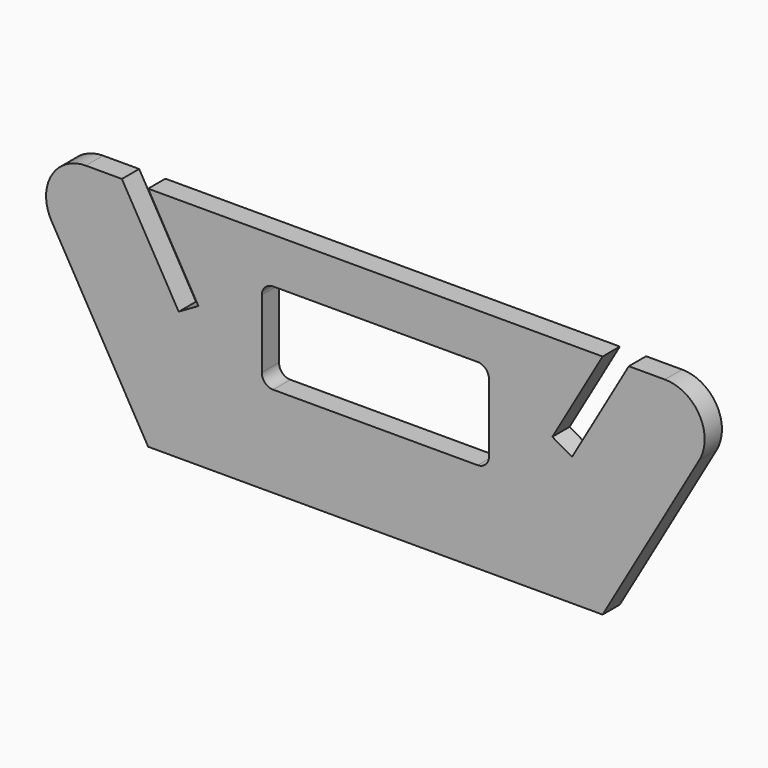
from build123d import *

# Parameters (mm, degrees)
F1_DEPTH = 9.5
F3_DEPTH = 25
F4_R     = 35


with BuildPart() as f1:
    # F0 (on Front) → F1 (new body, symmetric)
    with BuildSketch(Plane.XZ):
        Polygon((-315.4700538379, 200), (-200, 0), (200, 0), (315.4700538379, 200), (223.0940107676, 200), (173.0940107676, 113.3974596216), (155.7735026919, 123.3974596216), (200, 200), (-200, 200), (-155.7735026919, 123.3974596216), (-173.0940107676, 113.3974596216), (-223.0940107676, 200), align=None)
    extrude(amount=F1_DEPTH, both=True)

    # F2 (on face) → F3 (cut)
    with BuildSketch(Plane.XZ.offset(9.5)):
        with BuildLine():
            Line((90, 160), (-90, 160))
            ThreePointArc((-90, 160), (-97.0710678119, 157.0710678119), (-100, 150))
            Line((-100, 150), (-100, 90))
            ThreePointArc((-100, 90), (-97.0710678119, 82.9289321881), (-90, 80))
            Line((-90, 80), (90, 80))
            ThreePointArc((90, 80), (97.0710678119, 82.9289321881), (100, 90))
            Line((100, 90), (100, 150))
            ThreePointArc((100, 150), (97.0710678119, 157.0710678119), (90, 160))
        make_face()
    extrude(amount=-F3_DEPTH, mode=Mode.SUBTRACT)

    # F4
    f4_edges = [f1.edges().sort_by_distance(p)[0] for p in [
        (-315.470054, 0, 200),
        (315.470054, 0, 200),
    ]]
    fillet(f4_edges, radius=F4_R)


solid = f1.part
